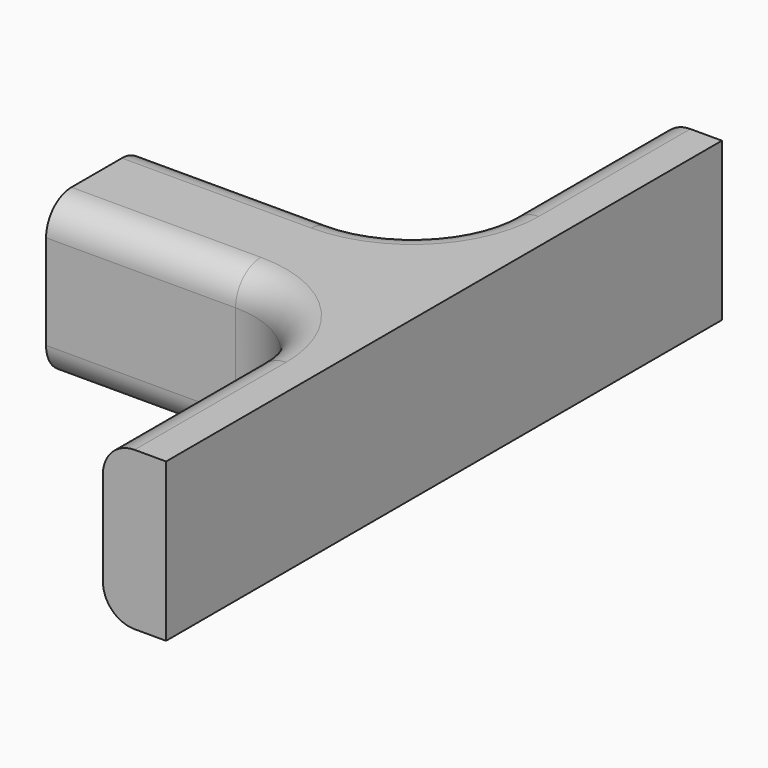
from build123d import *

# Parameters (mm, degrees)
F1_DEPTH = 10
F2_R     = 2
F4_D     = 4
F4_DEPTH = 15
F4_TIP   = 1.2017212381


with BuildPart() as f1:
    # F0 (on Top) → F1 (new body)
    with BuildSketch(Plane.XY):
        with BuildLine():
            Line((0, -22), (0, 0))
            Line((0, 0), (0, 22))
            Line((0, 22), (-4, 22))
            Line((-4, 22), (-4, 10))
            ThreePointArc((-4, 10), (-5.7573593129, 5.7573593129), (-10, 4))
            Line((-10, 4), (-22, 4))
            Line((-22, 4), (-22, 0))
            Line((-22, 0), (-22, -4))
            Line((-22, -4), (-10, -4))
            ThreePointArc((-10, -4), (-5.7573593129, -5.7573593129), (-4, -10))
            Line((-4, -10), (-4, -22))
            Line((-4, -22), (0, -22))
        make_face()
    extrude(amount=F1_DEPTH)

    # F2
    f2_edges = [f1.edges().sort_by_distance(p)[0] for p in [
        (-5.757359, -5.757359, 10),
        (-4, 16, 10),
        (-5.757359, -5.757359, 0),
        (-5.757359, 5.757359, 0),
    ]]
    fillet(f2_edges, radius=F2_R)

    # F4
    with Locations(Plane(origin=(-22, 0, 0), x_dir=(0, -1, 0), z_dir=(-1, 0, 0))):
        with Locations((0, 5)):
            Hole(F4_D / 2, depth=F4_DEPTH)
            with Locations((0, 0, -(F4_DEPTH + F4_TIP / 2))):  # 118° drill point
                Cone(0, F4_D / 2, F4_TIP, mode=Mode.SUBTRACT)


solid = f1.part
